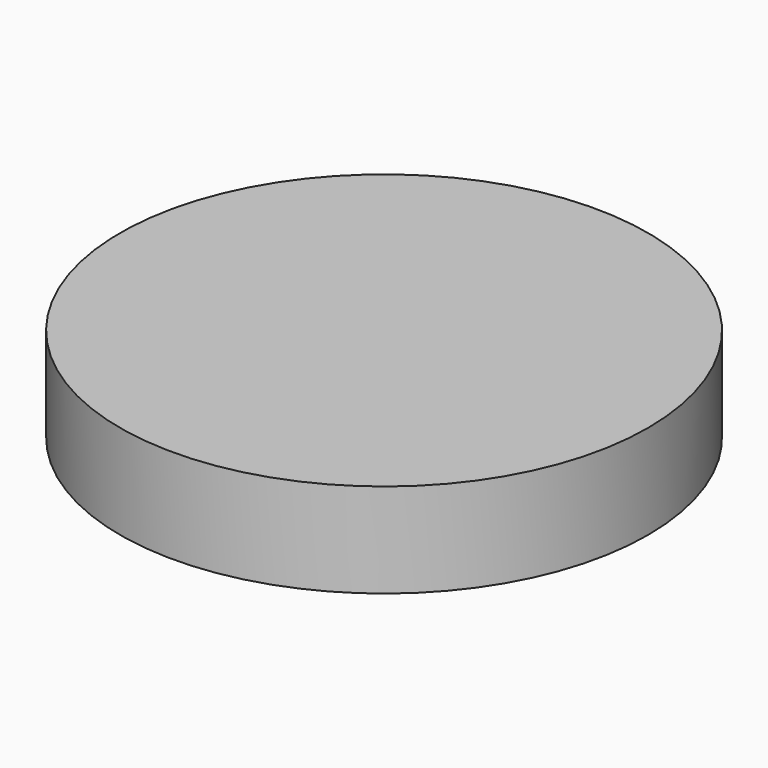
from build123d import *

# Parameters (mm, degrees)
SKETCH_R  = 28
PAD_DEPTH = 10


with BuildPart() as part:
    # Sketch → Pad (new body)
    with BuildSketch(Plane.XY):
        Circle(SKETCH_R)
    extrude(amount=PAD_DEPTH)


with BuildPart() as part_1:
    # PadBody placement: moved
    add(part.part.moved(Location((0, 0, -40))))


solid = part_1.part
